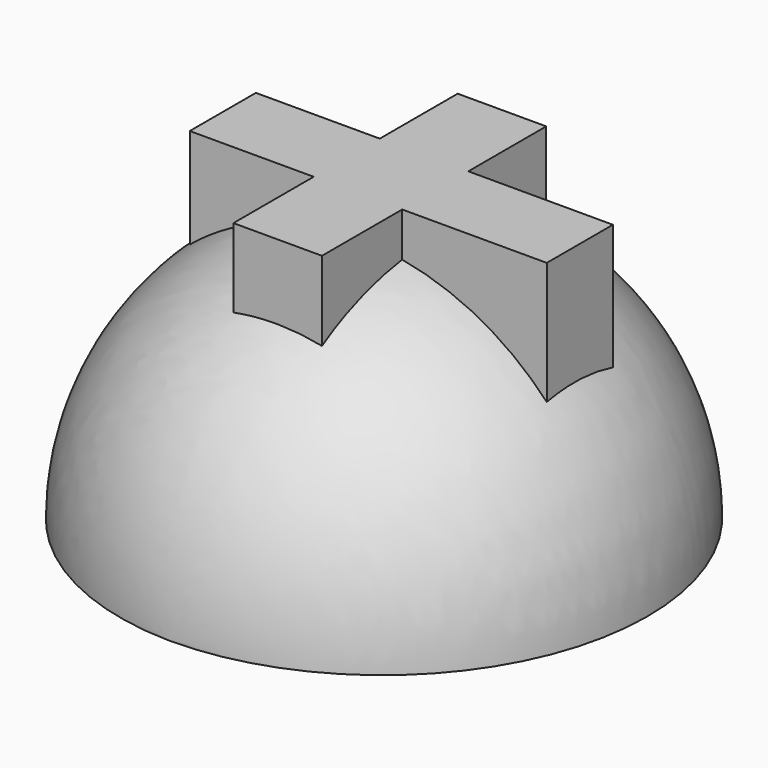
from build123d import *

# Parameters (mm, degrees)
F1_ANGLE = 180
F2_W     = 4.4753961265
F2_H     = 4.9229362048
F2_H_2   = 4.1770362295
F2_W_2   = 6.2655545771
F2_W_3   = 7.3098130524
F2_H_3   = 5.0721159205
F3_DEPTH = 15.24


with BuildPart() as f1:
    # F0 (on Top) → F1 (revolve)
    with BuildSketch(Plane.XY):
        with BuildLine():
            Line((0.1948259916, 13.4235274294), (-0.0037149697, -13.4249406708))
            ThreePointArc((-0.0037149697, -13.4249406708), (13.4245741343, -0.0992729955), (0.1948259916, 13.4235274294))
        make_face()
    revolve(axis=Axis((0.0955555109, -0.0007066207, 0), (-0.0073946689, -0.9999726591, 0)), revolution_arc=F1_ANGLE)

    # F2 (on Top) → F3 (join)
    with BuildSketch(Plane.XY):
        with Locations((0.1792693511, 4.8863824923)):
            Rectangle(F2_W, F2_H)
        with Locations((0.1792693511, 0.3363962751)):
            Rectangle(F2_W, F2_H_2)
        with Locations((-5.1912060007, 0.3363962751)):
            Rectangle(F2_W_2, F2_H_2)
        with Locations((6.0718739405, 0.3363962751)):
            Rectangle(F2_W_3, F2_H_2)
        with Locations((0.1792693511, -4.2881797999)):
            Rectangle(F2_W, F2_H_3)
    extrude(amount=F3_DEPTH)


solid = f1.part
